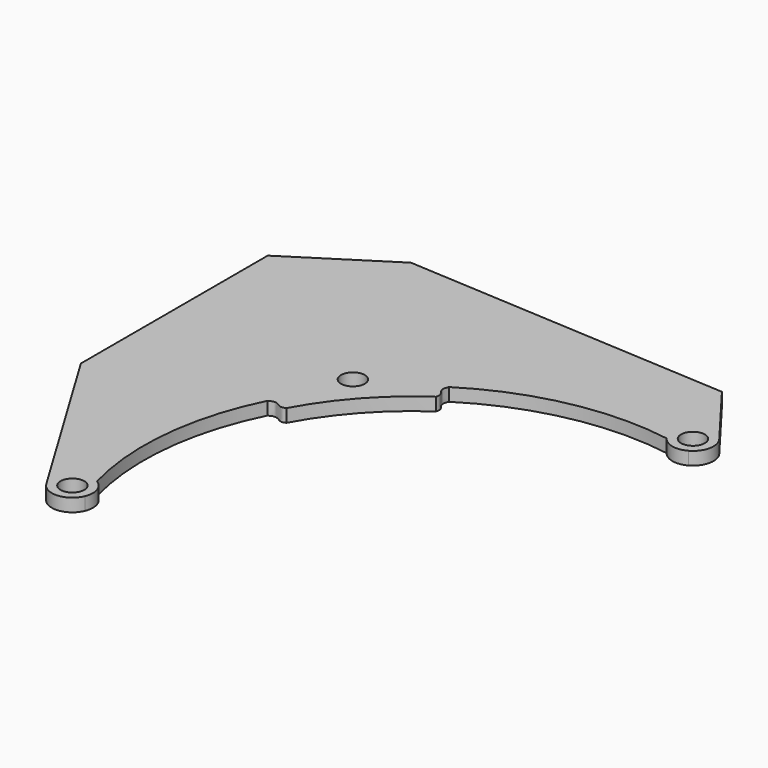
from build123d import *

# Parameters (mm, degrees)
F0_R     = 2.75
F1_DEPTH = 3


with BuildPart() as f1:
    # F0 (on Top) → F1 (new body)
    with BuildSketch(Plane.XY):
        with BuildLine():
            ThreePointArc((-51.0516837363, 27.5268157927), (-43.1068670644, 38.8046132811), (-32.7234007623, 47.8871490335))
            add(Edge.make_bspline(
                [(-33.2852145409, 52.3076905719), (-33.4543571655, 51.9059910499), (-33.7674435548, 51.0799755079), (-33.3650028775, 50.0184489109), (-32.407144953, 49.0049076055), (-32.6249996267, 48.2683027404), (-32.7234007623, 47.8871490335)],
                knots=[0, 0, 0, 0, 0.2598501594, 0.4998379143, 0.7605214926, 1, 1, 1, 1], degree=3))
            ThreePointArc((-33.2852145409, 52.3076905719), (-12.4821654495, 60.73051577), (9.9565241185, 61.1953235752))
            ThreePointArc((9.9565241185, 61.1953235752), (12.7640508795, 59.3939517556), (16.0637672694, 59.882847136))
            ThreePointArc((16.0637672694, 59.882847136), (18.4096184485, 63.056735658), (17.5469135613, 66.9080116001))
            Line((17.5469135613, 66.9080116001), (6.3686748879, 81.6490081797))
            Line((6.3686748879, 81.6490081797), (-69.0058213203, 86.0004816489))
            Line((-69.0058213203, 86.0004816489), (-90.9180025666, 72.0056142672))
            Line((-90.9180025666, 72.0056142672), (-90.9180025666, 18.0056142672))
            Line((-90.9180025666, 18.0056142672), (-66.3720441269, -22.6606607562))
            ThreePointArc((-66.3720441269, -22.6606607562), (-61.9753028968, -24.9445799673), (-57.9377198486, -22.0730745194))
            ThreePointArc((-57.9377198486, -22.0730745194), (-57.7870848846, -18.7407395942), (-59.8647553488, -16.1310590795))
            ThreePointArc((-59.8647553488, -16.1310590795), (-61.6947236303, 6.1450041646), (-55.506756753, 27.6224538151))
            add(Edge.make_bspline(
                [(-55.506756753, 27.6224538151), (-55.1249864063, 27.8327467911), (-54.3363138876, 28.2306417786), (-53.2384693692, 27.9416182012), (-52.1301620375, 27.0952065756), (-51.4204320113, 27.3890273988), (-51.0516837363, 27.5268157927)],
                knots=[0, 0, 0, 0, 0.2598501594, 0.4998379143, 0.7605214926, 1, 1, 1, 1], degree=3))
        make_face()
        with Locations((-62.3054166246, -20.2060649122)):
            Circle(F0_R, mode=Mode.SUBTRACT)
        with Locations((-48.6810309089, 43.8224512054)):
            Circle(F0_R, mode=Mode.SUBTRACT)
        with Locations((13.7620630882, 64.037923292)):
            Circle(F0_R, mode=Mode.SUBTRACT)
    extrude(amount=F1_DEPTH)


solid = f1.part
